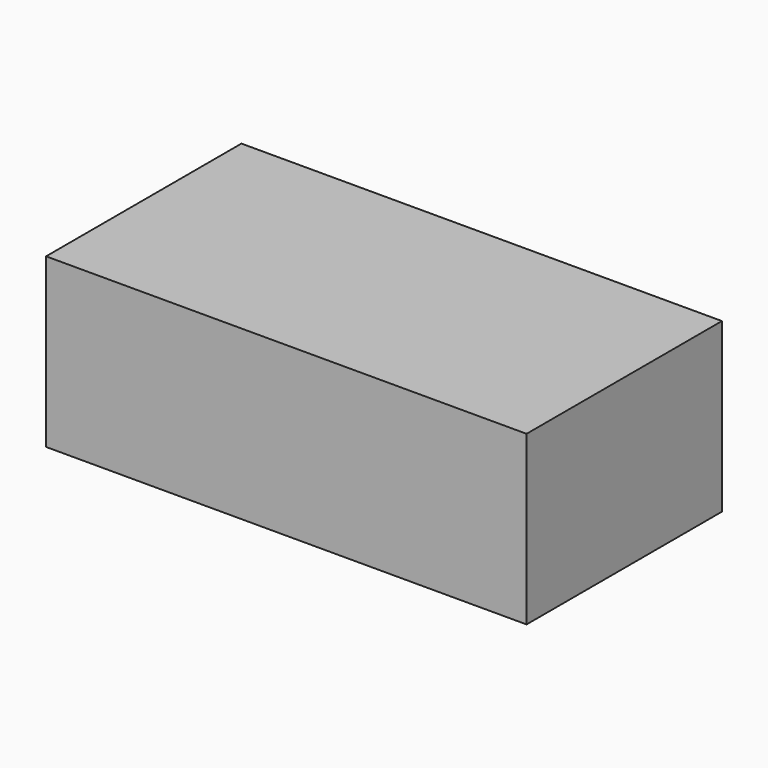
from build123d import *

# Parameters (mm, degrees)
F0_W     = 109.076951
F0_H     = 55.436395
F1_DEPTH = 38.1
F3_DEPTH = 31.75


with BuildPart() as f1:
    # F0 (on Top) → F1 (new body)
    with BuildSketch(Plane.XY):
        with Locations((-8.016041, 27.718197)):
            Rectangle(F0_W, F0_H)
    extrude(amount=F1_DEPTH)


with BuildPart() as f3:
    # F2 (on Right) → F3 (new body)
    with BuildSketch(Plane.YZ):
        Polygon((13.686987, 59.200544), (24.832965, 39.895144), (35.978943, 59.200544), align=None)
    extrude(amount=F3_DEPTH)


with BuildPart() as f1_1:
    add(f1.part)

    # F4: cut F3
    add(f3.part, mode=Mode.SUBTRACT)


solid = f1_1.part
